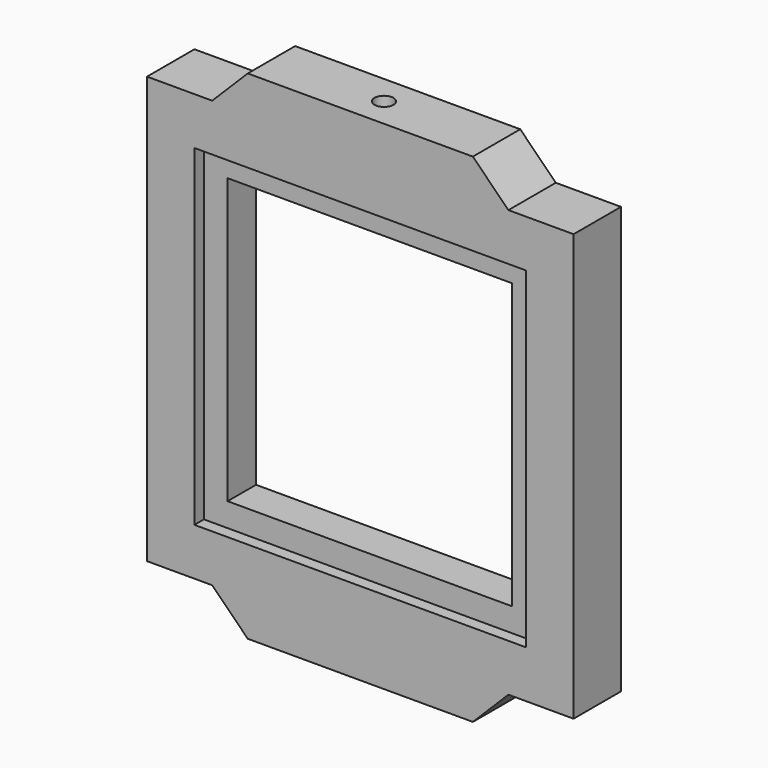
from build123d import *

# Parameters (mm, degrees)
F0_W      = 180
F0_H      = 180
F1_DEPTH  = 25
F2_W      = 125
F2_H      = 25
F3_DEPTH  = 15
F4_W      = 125
F4_H      = 25
F5_DEPTH  = 15
F7_DEPTH  = 25
F8_W      = 120
F8_H      = 120
F9_DEPTH  = 25
F10_W     = 140
F10_H     = 140
F11_DEPTH = 5
F12_W     = 140
F12_H     = 140
F13_DEPTH = 5
F14_R     = 4
F15_DEPTH = 25
F16_R     = 4
F17_DEPTH = 25


with BuildPart() as f1:
    # F0 (on Front) → F1 (new body)
    with BuildSketch(Plane.XZ):
        Rectangle(F0_W, F0_H)
    extrude(amount=F1_DEPTH)

    # F2 (on face) → F3 (join)
    with BuildSketch(Plane(origin=(0, 0, -90), x_dir=(1, 0, 0), z_dir=(0, 0, -1))):
        with Locations((0, 12.5)):
            Rectangle(F2_W, F2_H)
    extrude(amount=F3_DEPTH)

    # F4 (on face) → F5 (join)
    with BuildSketch(Plane.XY.offset(90)):
        with Locations((0, -12.5)):
            Rectangle(F4_W, F4_H)
    extrude(amount=F5_DEPTH)

    # F6 (on face) → F7 (cut)
    with BuildSketch(Plane.XZ.offset(25)):
        Polygon((-47.5, -105), (-62.5, -90), (-62.5, -105), align=None)
        Polygon((62.5, -105), (62.5, -90), (47.5, -105), align=None)
        Polygon((-62.5, 105), (-62.5, 90), (-47.5, 105), align=None)
        Polygon((47.5, 105), (62.5, 90), (62.5, 105), align=None)
    extrude(amount=-F7_DEPTH, mode=Mode.SUBTRACT)

    # F8 (on face) → F9 (cut)
    with BuildSketch(Plane(origin=(0, 0, 0), x_dir=(-1, 0, 0), z_dir=(0, 1, 0))):
        Rectangle(F8_W, F8_H)
    extrude(amount=-F9_DEPTH, mode=Mode.SUBTRACT)

    # F10 (on face) → F11 (cut)
    with BuildSketch(Plane(origin=(0, 0, 0), x_dir=(-1, 0, 0), z_dir=(0, 1, 0))):
        Rectangle(F10_W, F10_H)
    extrude(amount=-F11_DEPTH, mode=Mode.SUBTRACT)

    # F12 (on face) → F13 (cut)
    with BuildSketch(Plane.XZ.offset(25)):
        Rectangle(F12_W, F12_H)
    extrude(amount=-F13_DEPTH, mode=Mode.SUBTRACT)

    # F14 (on face) → F15 (cut)
    with BuildSketch(Plane(origin=(0, 0, -105), x_dir=(1, 0, 0), z_dir=(0, 0, -1))):
        with Locations((0, 12.5)):
            Circle(F14_R)
    extrude(amount=-F15_DEPTH, mode=Mode.SUBTRACT)

    # F16 (on face) → F17 (cut)
    with BuildSketch(Plane.XY.offset(105)):
        with Locations((0, -12.5)):
            Circle(F16_R)
    extrude(amount=-F17_DEPTH, mode=Mode.SUBTRACT)


solid = f1.part
